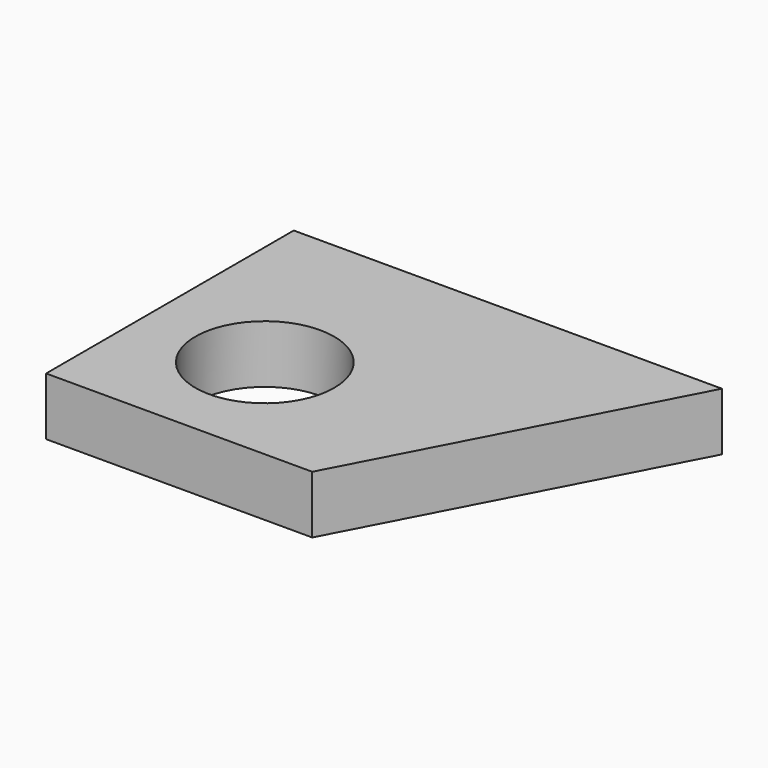
from build123d import *

# Parameters (mm, degrees)
CYLINDER020_R     = 12
CYLINDER020_DEPTH = 10
PAD002_DEPTH      = 10


with BuildPart() as cylinder020:
    # Cylinder020 → Cylinder020 (new body)
    with BuildSketch(Plane(origin=(44.5, 9, 0), x_dir=(1, 0, 0), z_dir=(0, 0, 1))):
        Circle(CYLINDER020_R)
    extrude(amount=CYLINDER020_DEPTH)


with BuildPart() as left_ref:
    # Sketch002 → Pad002 (new body)
    with BuildSketch(Plane.XY):
        Polygon((97.5, 41.5), (23.5, 41.5), (23.5, -12), (69.5, -12), align=None)
    extrude(amount=PAD002_DEPTH)

    # Cut001002: cut Cylinder020
    add(cylinder020.part, mode=Mode.SUBTRACT)


solid = left_ref.part
